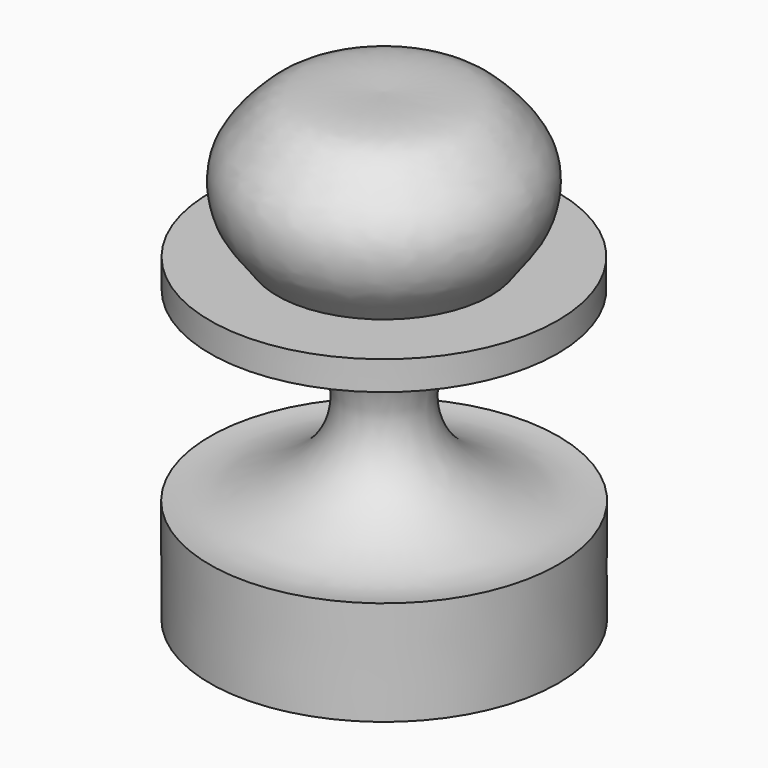
from build123d import *


with BuildPart() as f1:
    # F0 (on Front) → F1 (revolve)
    with BuildSketch(Plane.XZ):
        with BuildLine():
            Line((-0.040977818, 50.7999834726), (-0.0281722457, 34.9249834726))
            Line((-0.0281722457, 34.9249834726), (11.6369621828, 34.9249834726))
            add(Edge.make_bspline(
                [(11.6369621828, 34.9249834726), (13.0368830044, 36.9070736327), (14.7482814634, 38.5618948704), (15.6114272398, 44.2911170723), (12.1099049121, 48.3974763504), (8.7841718232, 51.3108308554), (2.9360923547, 50.8807192763), (-0.040977818, 50.7999834726)],
                knots=[0, 0, 0, 0, 0.1923243915, 0.3816970985, 0.5743046521, 0.7487273818, 1, 1, 1, 1], degree=3))
        make_face()
        Polygon((-0.0281722457, 34.9249834726), (-0.0256111312, 31.7499834726), (9.4434842771, 31.7499834726), (18.9852417579, 31.7499834726), (18.9852417579, 34.9249834726), (11.6369621828, 34.9249834726), align=None)
        with BuildLine():
            Line((-0.0256111312, 31.7499834726), (0, 0))
            Line((0, 0), (19.05, 0))
            Line((19.05, 0), (19.05, 11.43))
            add(Edge.make_bspline(
                [(19.05, 11.43), (17.8974687558, 11.2669078731), (14.9016420454, 10.8618415577), (5.9284372664, 14.993889774), (3.4405535898, 22.7761324893), (7.6980120469, 29.9716513404), (8.6001447087, 31.3027782592), (9.4434842771, 31.7499834726)],
                knots=[0, 0, 0, 0, 0.1644527321, 0.4146783699, 0.6406160164, 0.8691835392, 1, 1, 1, 1], degree=3))
            Line((9.4434842771, 31.7499834726), (-0.0256111312, 31.7499834726))
        make_face()
    revolve(axis=Axis((-0.020488909, 0, 25.3999917363), (-0.00080665, 0, 0.9999996747)))


solid = f1.part
